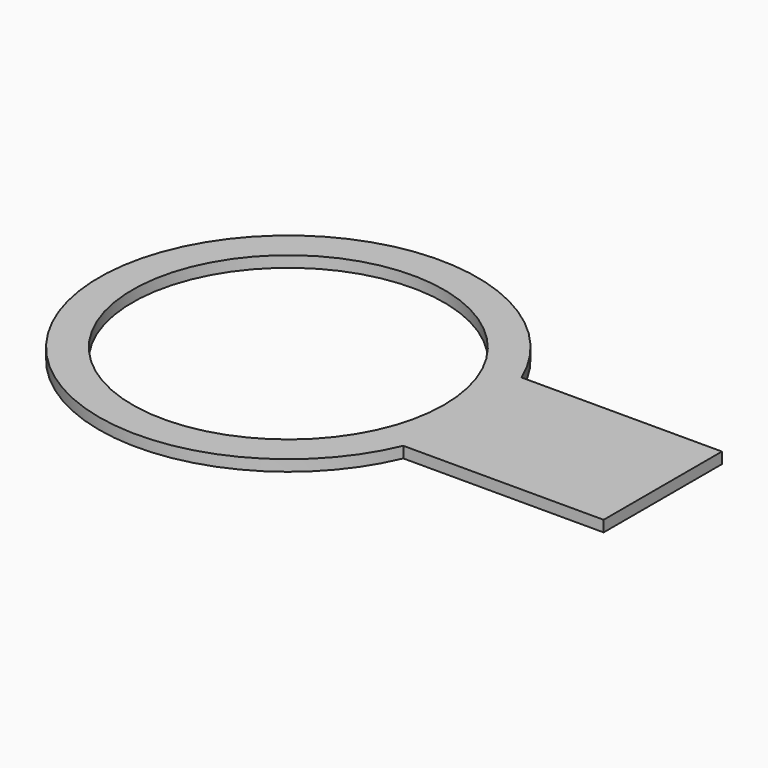
from build123d import *

# Parameters (mm, degrees)
PAD_DEPTH    = 1
SKETCH_R     = 14
POCKET_DEPTH = 1.001


with BuildPart() as part:
    # Sketch004 → Pad (new body)
    with BuildSketch(Plane.XY):
        with BuildLine():
            Line((28.648583, 6.642429), (10.648583, 6.642429))
            ThreePointArc((10.648583, 6.642429), (-22, 0), (10.648583, -6.642429))
            Line((10.648583, -6.642429), (28.648583, -6.642429))
            Line((28.648583, 0), (28.648583, -6.642429))
            Line((28.648583, 6.642429), (28.648583, 0))
        make_face()
    extrude(amount=PAD_DEPTH)

    # Sketch → Pocket (cut, through all)
    with BuildSketch(Plane.XY):
        with Locations((-5, 0)):
            Circle(SKETCH_R)
    extrude(amount=POCKET_DEPTH, mode=Mode.SUBTRACT)


solid = part.part
